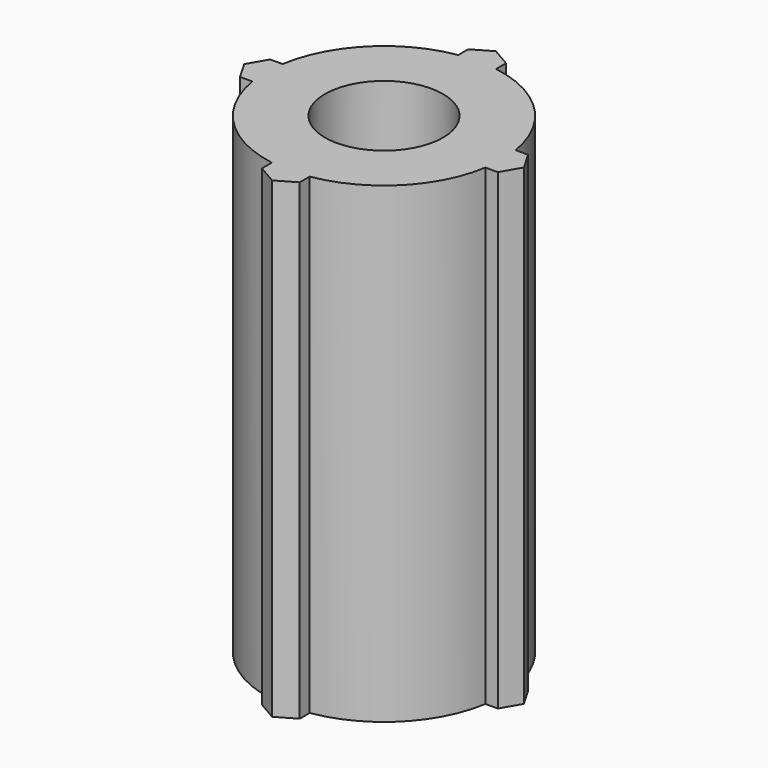
from build123d import *

# Parameters (mm, degrees)
F0_R     = 3.175
F1_DEPTH = 25.4


with BuildPart() as f1:
    # F0 (on Top) → F1 (new body)
    with BuildSketch(Plane.XY):
        with BuildLine():
            ThreePointArc((6.2681930411, -1.016), (6.3295152188, -0.5096440862), (6.35, 0))
            ThreePointArc((6.35, 0), (6.3295152188, 0.5096440862), (6.2681930411, 1.016))
            Line((6.2681930411, 1.016), (5.7634121265, 1.016))
            Line((5.7634121265, 1.016), (5.176824253, 0))
            Line((5.176824253, 0), (5.7634121265, -1.016))
            Line((5.7634121265, -1.016), (6.2681930411, -1.016))
        make_face()
        with BuildLine():
            ThreePointArc((6.2681930411, 1.016), (6.3295152188, 0.5096440862), (6.35, 0))
            ThreePointArc((6.35, 0), (6.3295152188, -0.5096440862), (6.2681930411, -1.016))
            Line((6.2681930411, -1.016), (6.9365878735, -1.016))
            Line((6.9365878735, -1.016), (7.523175747, 0))
            Line((7.523175747, 0), (6.9365878735, 1.016))
            Line((6.9365878735, 1.016), (6.2681930411, 1.016))
        make_face()
        with BuildLine():
            Line((5.7634121265, 1.016), (6.2681930411, 1.016))
            ThreePointArc((6.2681930411, 1.016), (4.4901280605, 4.4901280605), (1.016, 6.2681930411))
            Line((1.016, 6.2681930411), (1.016, 5.7634121265))
            Line((1.016, 5.7634121265), (0, 5.176824253))
            Line((0, 5.176824253), (-1.016, 5.7634121265))
            Line((-1.016, 5.7634121265), (-1.016, 6.2681930411))
            ThreePointArc((-1.016, 6.2681930411), (-4.4901280605, 4.4901280605), (-6.2681930411, 1.016))
            Line((-6.2681930411, 1.016), (-5.7634121265, 1.016))
            Line((-5.7634121265, 1.016), (-5.176824253, 0))
            Line((-5.176824253, 0), (-5.7634121265, -1.016))
            Line((-5.7634121265, -1.016), (-6.2681930411, -1.016))
            ThreePointArc((-6.2681930411, -1.016), (-4.4901280605, -4.4901280605), (-1.016, -6.2681930411))
            Line((-1.016, -6.2681930411), (-1.016, -5.7634121265))
            Line((-1.016, -5.7634121265), (0, -5.176824253))
            Line((0, -5.176824253), (1.016, -5.7634121265))
            Line((1.016, -5.7634121265), (1.016, -6.2681930411))
            ThreePointArc((1.016, -6.2681930411), (4.4901280605, -4.4901280605), (6.2681930411, -1.016))
            Line((6.2681930411, -1.016), (5.7634121265, -1.016))
            Line((5.7634121265, -1.016), (5.176824253, 0))
            Line((5.176824253, 0), (5.7634121265, 1.016))
        make_face()
        Circle(F0_R, mode=Mode.SUBTRACT)
        with BuildLine():
            Line((1.016, 5.7634121265), (1.016, 6.2681930411))
            ThreePointArc((1.016, 6.2681930411), (0, 6.35), (-1.016, 6.2681930411))
            Line((-1.016, 6.2681930411), (-1.016, 5.7634121265))
            Line((-1.016, 5.7634121265), (0, 5.176824253))
            Line((0, 5.176824253), (1.016, 5.7634121265))
        make_face()
        with BuildLine():
            ThreePointArc((-1.016, 6.2681930411), (0, 6.35), (1.016, 6.2681930411))
            Line((1.016, 6.2681930411), (1.016, 6.9365878735))
            Line((1.016, 6.9365878735), (0, 7.523175747))
            Line((0, 7.523175747), (-1.016, 6.9365878735))
            Line((-1.016, 6.9365878735), (-1.016, 6.2681930411))
        make_face()
        with BuildLine():
            Line((1.016, -6.9365878735), (1.016, -6.2681930411))
            ThreePointArc((1.016, -6.2681930411), (0, -6.35), (-1.016, -6.2681930411))
            Line((-1.016, -6.2681930411), (-1.016, -6.9365878735))
            Line((-1.016, -6.9365878735), (0, -7.523175747))
            Line((0, -7.523175747), (1.016, -6.9365878735))
        make_face()
        with BuildLine():
            ThreePointArc((-1.016, -6.2681930411), (0, -6.35), (1.016, -6.2681930411))
            Line((1.016, -6.2681930411), (1.016, -5.7634121265))
            Line((1.016, -5.7634121265), (0, -5.176824253))
            Line((0, -5.176824253), (-1.016, -5.7634121265))
            Line((-1.016, -5.7634121265), (-1.016, -6.2681930411))
        make_face()
        with BuildLine():
            Line((-5.7634121265, 1.016), (-6.2681930411, 1.016))
            ThreePointArc((-6.2681930411, 1.016), (-6.35, 0), (-6.2681930411, -1.016))
            Line((-6.2681930411, -1.016), (-5.7634121265, -1.016))
            Line((-5.7634121265, -1.016), (-5.176824253, 0))
            Line((-5.176824253, 0), (-5.7634121265, 1.016))
        make_face()
        with BuildLine():
            ThreePointArc((-6.2681930411, -1.016), (-6.35, 0), (-6.2681930411, 1.016))
            Line((-6.2681930411, 1.016), (-6.9365878735, 1.016))
            Line((-6.9365878735, 1.016), (-7.523175747, 0))
            Line((-7.523175747, 0), (-6.9365878735, -1.016))
            Line((-6.9365878735, -1.016), (-6.2681930411, -1.016))
        make_face()
    extrude(amount=F1_DEPTH)


solid = f1.part
